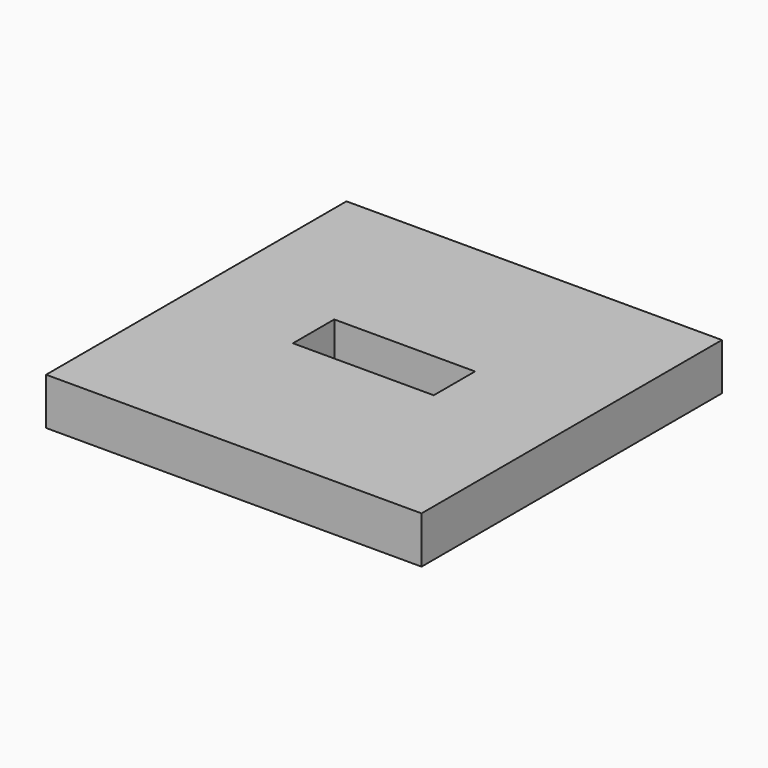
from build123d import *

# Parameters (mm, degrees)
SKETCH005_W      = 3
SKETCH005_H      = 1.1
EXTRUDE006_DEPTH = 1
BOX002_W         = 8
BOX002_H         = 8
BOX002_DEPTH     = 1


with BuildPart() as snapslotextrude:
    # Sketch005 (on Face6 of Box002) → Extrude006 (new body)
    with BuildSketch(Plane(origin=(30.86, 30.4267, 1), x_dir=(1, 0, 0), z_dir=(0, 0, 1))):
        with Locations((4, 4)):
            Rectangle(SKETCH005_W, SKETCH005_H)
    extrude(amount=-EXTRUDE006_DEPTH)


with BuildPart() as snapslot:
    # Box002 → Box002 (new body)
    with BuildSketch(Plane(origin=(30.86, 30.4267, 0), x_dir=(1, 0, 0), z_dir=(0, 0, 1))):
        with Locations((4, 4)):
            Rectangle(BOX002_W, BOX002_H)
    extrude(amount=BOX002_DEPTH)

    # Cut001: cut snapSlotExtrude
    add(snapslotextrude.part, mode=Mode.SUBTRACT)


solid = snapslot.part
